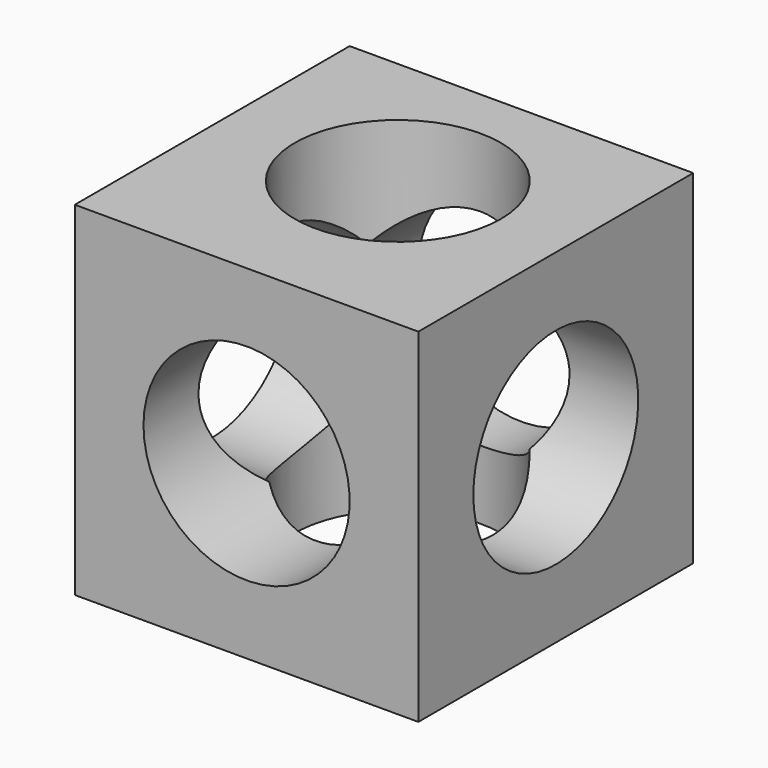
from build123d import *

# Parameters (mm, degrees)
F0_W     = 127
F0_H     = 127
F1_DEPTH = 127
F4_R     = 38.1
F5_DEPTH = 127
F3_R     = 38.1
F6_DEPTH = 127
F2_R     = 38.1
F7_DEPTH = 127


with BuildPart() as f1:
    # F0 (on Top) → F1 (new body)
    with BuildSketch(Plane.XY):
        with Locations((-63.5, 63.5)):
            Rectangle(F0_W, F0_H)
    extrude(amount=F1_DEPTH)

    # F4 (on face) → F5 (cut)
    with BuildSketch(Plane.XY.offset(127)):
        with Locations((-63.5, 69.870859)):
            Circle(F4_R)
    extrude(amount=-F5_DEPTH, mode=Mode.SUBTRACT)

    # F3 (on face) → F6 (cut)
    with BuildSketch(Plane(origin=(0, 127, 0), x_dir=(-1, 0, 0), z_dir=(0, 1, 0))):
        with Locations((63.5, 63.5)):
            Circle(F3_R)
    extrude(amount=-F6_DEPTH, mode=Mode.SUBTRACT)

    # F2 (on face) → F7 (cut)
    with BuildSketch(Plane(origin=(-127, 0, 0), x_dir=(0, -1, 0), z_dir=(-1, 0, 0))):
        with Locations((-63.5, 63.5)):
            Circle(F2_R)
    extrude(amount=-F7_DEPTH, mode=Mode.SUBTRACT)


solid = f1.part
